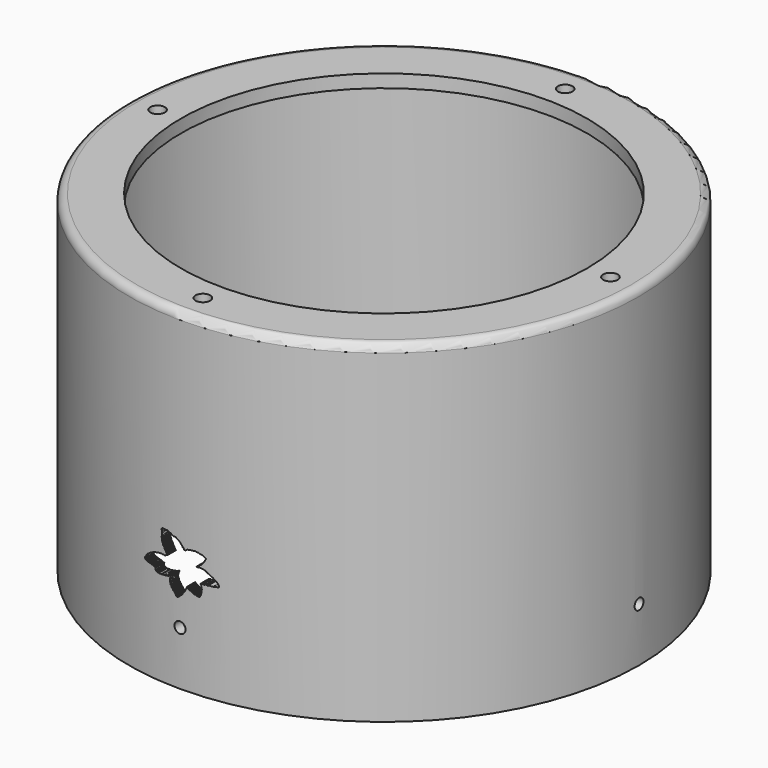
from build123d import *

# Parameters (mm, degrees)
EXTRUDE037_DEPTH  = 10
SKETCH049_R       = 2.8
EXTRUDE031_DEPTH  = 20
CYLINDER151_R     = 2.13
CYLINDER151_DEPTH = 300
CYLINDER152_R     = 2.13
CYLINDER152_DEPTH = 300
TUBE006_R         = 98
TUBE006_R_2       = 94
TUBE006_DEPTH     = 65
SKETCH048_R       = 98
SKETCH048_R_2     = 76
EXTRUDE030_DEPTH  = 5
FILLET003_R       = 3
TUBE005_R         = 98
TUBE005_R_2       = 95
TUBE005_DEPTH     = 3
SKETCH046_R       = 2.8
EXTRUDE028_DEPTH  = 20
CYLINDER137_R     = 2.13
CYLINDER137_DEPTH = 300
CYLINDER138_R     = 2.13
CYLINDER138_DEPTH = 300
TUBE003_R         = 98
TUBE003_R_2       = 94
TUBE003_DEPTH     = 125
SKETCH040_R       = 98
SKETCH040_R_2     = 78
EXTRUDE022_DEPTH  = 5
FILLET004_R       = 3


with BuildPart() as logocut:
    # Sketch055 → Extrude037 (new body)
    with BuildSketch(Plane.XZ):
        Polygon((35.718899, 14.46768), (35.541523, 14.282366), (35.541523, 14.207885), (35.453289, 14.134218), (35.458279, 14.061839), (35.319538, 13.921635), (35.319538, 13.852995), (35.247978, 13.797498), (35.247978, 13.657295), (35.182514, 13.591213), (35.182514, 13.264672), (35.09935, 13.159025), (35.09935, 13.045871), (35.033642, 12.956543), (35.033642, 12.34891), (35.100822, 12.34891), (35.100822, 12.210164), (35.170921, 12.207246), (35.170921, 11.994762), (35.235928, 11.994762), (35.235928, 11.918059), (35.300144, 11.918059), (35.300144, 11.840232), (35.367466, 11.840232), (35.367466, 11.243261), (35.435009, 11.243261), (35.435009, 11.172728), (35.509796, 11.172728), (35.509796, 11.102627), (35.655842, 11.102627), (35.655842, 11.025223), (35.712799, 11.025223), (35.712799, 10.768185), (35.775574, 10.768063), (35.775574, 10.564438), (35.845959, 10.564438), (35.845959, 10.476691), (35.987968, 10.476691), (35.987968, 10.422847), (36.120129, 10.422847), (36.120129, 10.290686), (36.19257, 10.290686), (36.19257, 10.158525), (36.253265, 10.158525), (36.253265, 10.089742), (36.31789, 10.089742), (36.31789, 9.887097), (36.38879, 9.887097), (36.38879, 9.735032), (36.451588, 9.735032), (36.451588, 9.656166), (36.670654, 9.656166), (36.670654, 9.588986), (36.733456, 9.588986), (36.733456, 9.511584), (36.794792, 9.511584), (36.794792, 9.403511), (36.866356, 9.403511), (36.866356, 9.248704), (36.929153, 9.248704), (36.929153, 9.182982), (37.003635, 9.182982), (37.003635, 9.121215), (37.06601, 9.121215), (37.06601, 8.981222), (37.136494, 8.981222), (37.136494, 8.856171), (37.211735, 8.856171), (37.211735, 8.77808), (37.275997, 8.777898), (37.275997, 8.708389), (37.347462, 8.708389), (37.347462, 8.586019), (37.411095, 8.586019), (37.411095, 8.502716), (37.477772, 8.502716), (37.477772, 8.378516), (37.549984, 8.378516), (37.549984, 8.295938), (37.62376, 8.295938), (37.62376, 8.208313), (37.695324, 8.211234), (37.695324, 8.14022), (37.753563, 8.144136), (37.757423, 8.06459), (37.818073, 8.06459), (37.82164, 7.989674), (38.102516, 7.989674), (38.191708, 8.080424), (38.241653, 8.085775), (38.455708, 8.323022), (38.523491, 8.323022), (38.588669, 8.403136), (38.677258, 8.403136), (39.064339, 8.80818), (39.151966, 8.80818), (39.535454, 9.198032), (39.631844, 9.198032), (39.79203, 9.38195), (39.788441, 9.456085), (39.977173, 9.634459), (39.977173, 9.725333), (40.169685, 9.919039), (40.174648, 9.995584), (40.238758, 10.060343), (40.242348, 10.126106), (40.594769, 10.479335), (40.594769, 10.549882), (40.670101, 10.618037), (40.658142, 10.652713), (40.698799, 10.652713), (40.93169, 10.887704), (40.93169, 10.959214), (41.013603, 11.040468), (41.006752, 11.164798), (41.07626, 11.227451), (41.072342, 11.297937), (41.149967, 11.382103), (41.149967, 11.57235), (41.231716, 11.635139), (41.215462, 11.771651), (41.283718, 11.843158), (41.27858, 11.869847), (41.31382, 11.869847), (41.545475, 12.104514), (41.561829, 12.430472), (41.62772, 12.504983), (41.62772, 12.610834), (41.691978, 12.539269), (41.767921, 12.539269), (41.767921, 12.451643), (41.833641, 12.454563), (41.833641, 12.390304), (41.89352, 12.390304), (41.89352, 12.317281), (41.95924, 12.321663), (41.965084, 12.2501), (42.023502, 12.255942), (42.026421, 12.18292), (42.106747, 12.188762), (42.106747, 12.114279), (42.242569, 12.12158), (42.242569, 12.041256), (42.44265, 12.041256), (42.449951, 11.95655), (42.522976, 11.963852), (42.527355, 11.89521), (42.593075, 11.901052), (42.593075, 11.847015), (42.645653, 11.849936), (42.645653, 11.788598), (42.784397, 11.788598), (42.784397, 11.713079), (43.064156, 11.713079), (43.064156, 11.635675), (43.198517, 11.635675), (43.198517, 11.571416), (43.261314, 11.571416), (43.261314, 11.508616), (43.328495, 11.508616), (43.328495, 11.432673), (43.391296, 11.437055), (43.3932, 11.371733), (43.743572, 11.371733), (43.743572, 11.302058), (43.809788, 11.302058), (43.813377, 11.228464), (44.023823, 11.228464), (44.023823, 11.160309), (44.154156, 11.160309), (44.15057, 11.092153), (44.284489, 11.100523), (44.284489, 11.027584), (44.35384, 11.031171), (44.35384, 10.953449), (44.492542, 10.953449), (44.492542, 10.906579), (44.840462, 10.906579), (44.840462, 10.822741), (44.96711, 10.824525), (44.96711, 10.749605), (45.238247, 10.749605), (45.238247, 10.678252), (45.438034, 10.678252), (45.438034, 10.617603), (45.857227, 10.617603), (45.857227, 10.548035), (46.271069, 10.548035), (46.571186, 10.875965), (46.567978, 10.953712), (46.651337, 11.038672), (46.651337, 11.216198), (46.753532, 11.316969), (46.746231, 11.435266), (46.817791, 11.514131), (46.808098, 11.635964), (46.891933, 11.728722), (46.891933, 11.914238), (46.970421, 12.010563), (46.970421, 13.014699), (47.143505, 13.195651), (47.143505, 13.581231), (47.023247, 13.581231), (47.023247, 13.968016), (46.938736, 13.981017), (46.938736, 14.192286), (46.860729, 14.189036), (46.860729, 14.276794), (46.974491, 14.400306), (46.984241, 14.647329), (46.867229, 14.660331), (46.867229, 14.806594), (46.798973, 14.813095), (46.795723, 14.884602), (46.737217, 14.891102), (46.750221, 15.069869), (46.65921, 15.076369), (46.65921, 15.209634), (46.753471, 15.281138), (47.549793, 15.281138), (47.549793, 15.2015), (48.132637, 15.2015), (48.191463, 15.28865), (48.281113, 15.28865), (48.404625, 15.419374), (48.65118, 15.419374), (48.65118, 15.332224), (48.908421, 15.332224), (48.908421, 15.264683), (49.113075, 15.264683), (49.113075, 15.170997), (49.344021, 15.170997), (49.431721, 15.277888), (49.512978, 15.271388), (49.63649, 15.417651), (51.160881, 15.417651), (51.27129, 15.474693), (51.870747, 15.474693), (51.950146, 15.550121), (52.061306, 15.550121), (52.156582, 15.633491), (53.077606, 15.633491), (53.255665, 15.808167), (53.255665, 16.103029), (53.195786, 16.103029), (53.195786, 16.304571), (53.130066, 16.301651), (53.130066, 16.440393), (53.059383, 16.440393), (53.055817, 16.517097), (52.977329, 16.517097), (52.977329, 16.645531), (52.92189, 16.645212), (52.92189, 16.714565), (52.854931, 16.714565), (52.853485, 16.786308), (52.786774, 16.786308), (52.786774, 16.921133), (52.715031, 16.921133), (52.715031, 16.980015), (52.645679, 16.980015), (52.645679, 17.036612), (52.576344, 17.036612), (52.576344, 17.128033), (52.514656, 17.128033), (52.514656, 17.269503), (52.450245, 17.264694), (52.445438, 17.336029), (52.379711, 17.338432), (52.382919, 17.40576), (52.317997, 17.402554), (52.317997, 17.471485), (52.245056, 17.471485), (52.245056, 17.536407), (52.183342, 17.538813), (52.183342, 17.607742), (52.11441, 17.607742), (52.11441, 17.674112), (52.04953, 17.674112), (52.04953, 17.749495), (51.901703, 17.749495), (51.901703, 17.809212), (51.835133, 17.809212), (51.835133, 17.891068), (51.763939, 17.891068), (51.763939, 17.962631), (51.6325, 17.962631), (51.6325, 18.028351), (51.484993, 18.028351), (51.484993, 18.071099), (51.416344, 18.071099), (51.416344, 18.158726), (51.28783, 18.158726), (51.28783, 18.227497), (51.223164, 18.227497), (51.226749, 18.292067), (51.152615, 18.292067), (51.152615, 18.366201), (51.084457, 18.360224), (51.084457, 18.442408), (51.022175, 18.442408), (51.022175, 18.51376), (50.816917, 18.51376), (50.787827, 18.602642), (50.749416, 18.611338), (50.739666, 18.673094), (50.541397, 18.653591), (50.538147, 18.7381), (50.411385, 18.721848), (50.395134, 18.793356), (50.333378, 18.793356), (50.336628, 18.83886), (50.206615, 18.83886), (50.209866, 18.920118), (50.125355, 18.926619), (50.115604, 19.004627), (49.998592, 18.994875), (49.992092, 19.085884), (49.936836, 19.050131), (49.920586, 19.15089), (49.797073, 19.128138), (49.806824, 19.202896), (49.728817, 19.189894), (49.719067, 19.258152), (49.660561, 19.264652), (49.65406, 19.332909), (49.602055, 19.332909), (49.598804, 19.407665), (49.462292, 19.394665), (49.462292, 19.472673), (49.254269, 19.453171), (49.254269, 19.527927), (49.199017, 19.527927), (49.199017, 19.618937), (49.06575, 19.605936), (49.0495, 19.661192), (48.990993, 19.65469), (48.984493, 19.735949), (48.857731, 19.726198), (48.857731, 19.814875), (48.774307, 19.806892), (48.774307, 19.889387), (48.585365, 19.889387), (48.585365, 19.953255), (48.441666, 19.953255), (48.441666, 20.011799), (48.375137, 20.011799), (48.375137, 20.088972), (48.303288, 20.088972), (48.303288, 20.152439), (48.091629, 20.152439), (48.091629, 20.233053), (47.891182, 20.233053), (47.891182, 20.296238), (47.686378, 20.296238), (47.686378, 20.368135), (47.289845, 20.368135), (47.289845, 20.43132), (47.009361, 20.43132), (47.009361, 20.503252), (46.726452, 20.503252), (46.726452, 20.562277), (46.319454, 20.562277), (46.230366, 20.478048), (45.840324, 20.478048), (45.758091, 20.39875), (45.684677, 20.39875), (45.684677, 20.475716), (45.235325, 20.475716), (45.151131, 20.396421), (45.039009, 20.39053), (45.127117, 20.498037), (45.167179, 20.498037), (45.258625, 20.560472), (45.324154, 20.560472), (45.40086, 20.646095), (45.522079, 20.646095), (45.614918, 20.704962), (45.804161, 20.704962), (45.991524, 20.88978), (45.991524, 20.958969), (46.058052, 21.020176), (46.052731, 21.089365), (46.212399, 21.246374), (46.276268, 21.227745), (46.505127, 21.448622), (46.584961, 21.453943), (46.69939, 21.602968), (46.824467, 21.584341), (46.901638, 21.685465), (46.965508, 21.656191), (47.205029, 21.875372), (47.205029, 22.071066), (47.263447, 22.071066), (47.620766, 22.445816), (47.620766, 22.517715), (47.821213, 22.718163), (47.834286, 22.79442), (48.047806, 22.997047), (48.047806, 23.136488), (48.099777, 23.217297), (48.099777, 23.280226), (48.302563, 23.487822), (48.302563, 23.552746), (48.36348, 23.623281), (48.36348, 23.687403), (48.433277, 23.751019), (48.442898, 23.812735), (48.515835, 23.896896), (48.515835, 23.966629), (48.570408, 24.037157), (48.570408, 24.298864), (48.516617, 24.298864), (48.516617, 24.388639), (48.434689, 24.388639), (48.434689, 24.454361), (48.316391, 24.454361), (48.316391, 24.525925), (48.230221, 24.525925), (48.230221, 24.593107), (48.027225, 24.593107), (48.027225, 24.657965), (47.882542, 24.657965), (47.882542, 24.729708), (47.81797, 24.729708), (47.81797, 24.787104), (47.68539, 24.787104), (47.68539, 24.86857), (47.557655, 24.86857), (47.557655, 24.935099), (47.475163, 24.935099), (47.475163, 25.014933), (47.361641, 25.009611), (47.361641, 25.07608), (46.949162, 25.07608), (46.949162, 25.150652), (46.591202, 25.150652), (46.591202, 25.220518), (46.389084, 25.220518), (46.389084, 25.276093), (46.207756, 25.276093), (46.207756, 25.358332), (46.124542, 25.358332), (46.122585, 25.418051), (45.988461, 25.418051), (45.979652, 25.497349), (45.785812, 25.497349), (45.685574, 25.395668), (45.594063, 25.395668), (45.583168, 25.476282), (44.974319, 25.476282), (44.968967, 25.566429), (44.902966, 25.566429), (44.904747, 25.643135), (44.82626, 25.643135), (44.819126, 25.705568), (44.615768, 25.705568), (44.523087, 25.619965), (44.444221, 25.619965), (44.370571, 25.546461), (44.204983, 25.546461), (44.12701, 25.493286), (44.013416, 25.493286), (43.990696, 25.591335), (43.674233, 25.591335), (43.586246, 25.508556), (43.391811, 25.508556), (43.300835, 25.416777), (43.130672, 25.416777), (43.130672, 25.490137), (42.781864, 25.490137), (42.61866, 25.342373), (42.543289, 25.342373), (42.506077, 25.28755), (42.426197, 25.28755), (42.378296, 25.260221), (42.303783, 25.260221), (42.226608, 25.185709), (42.161431, 25.185709), (42.161431, 25.233937), (42.098145, 25.233937), (42.098145, 25.274895), (41.828949, 25.274895), (41.602402, 25.080458), (41.49918, 25.094694), (41.361584, 24.946669), (41.281311, 24.925262), (41.203789, 24.852528), (41.110649, 24.847206), (41.062748, 24.791321), (40.990898, 24.783337), (40.940334, 24.740759), (40.940334, 24.804626), (40.897755, 24.80995), (40.897755, 24.895105), (40.701466, 24.895105), (40.599705, 24.801966), (40.599705, 24.87343), (40.53611, 24.87343), (40.53611, 24.944593), (40.458942, 24.944593), (40.458942, 25.177189), (40.384151, 25.177189), (40.384151, 25.344843), (40.320286, 25.344843), (40.320286, 25.412889), (40.258034, 25.412889), (40.258034, 25.482862), (40.070133, 25.482862), (40.070133, 25.642193), (39.956711, 25.642193), (39.956711, 25.77249), (39.909332, 25.77249), (39.909332, 25.873173), (39.844181, 25.873173), (39.844181, 25.938322), (39.784958, 25.950167), (39.784958, 26.068619), (39.7435, 26.068619), (39.7435, 26.181149), (39.675972, 26.181149), (39.675972, 26.221079), (39.488827, 26.221079), (39.491928, 26.297434), (39.446896, 26.297434), (39.446896, 26.432724), (39.383801, 26.432724), (39.383801, 26.575779), (39.312271, 26.575779), (39.312271, 26.630981), (39.232861, 26.630981), (39.232861, 26.707506), (39.171879, 26.707506), (39.171879, 26.781641), (39.023434, 26.781641), (39.023434, 26.867794), (38.956253, 26.867794), (38.956253, 26.93351), (38.896378, 26.93351), (38.896378, 26.994316), (38.843925, 26.994316), (38.843925, 27.052738), (38.775284, 27.052738), (38.775284, 27.119919), (38.702263, 27.119919), (38.702263, 27.193909), (38.649689, 27.193909), (38.649689, 27.274725), (38.523449, 27.274725), (38.523449, 27.318283), (38.440533, 27.318283), (38.440533, 27.398621), (38.367786, 27.398621), (38.367786, 27.469103), (38.294361, 27.469103), (38.294361, 27.531633), (38.223049, 27.531633), (38.223049, 27.595026), (38.001038, 27.595026), (38.001038, 27.671776), (37.874355, 27.671776), (37.874355, 27.748657), (37.822536, 27.748657), (37.822536, 27.798656), (37.684376, 27.798656), (37.684376, 27.885788), (37.556133, 27.885788), (37.556133, 27.943548), (37.416142, 27.943548), (37.416142, 28.040842), (37.072414, 28.040842), (37.078339, 28.117832), (36.817745, 28.117832), (36.699291, 28.023069), (36.563072, 28.023069), (36.563072, 28.088219), (36.480156, 28.088219), (36.480156, 28.152889), (36.321247, 28.152889), (36.321247, 28.215317), (36.053677, 28.215317), (36.053677, 28.272696), (35.983429, 28.272696), (35.983429, 28.351612), (35.921249, 28.351612), (35.921249, 28.439869), (35.843311, 28.439869), (35.843311, 28.501267), (35.706356, 28.501267), (35.706356, 28.515002), (35.638981, 28.515002), (35.638981, 28.577382), (35.565907, 28.577382), (35.565907, 28.73378), (35.36079, 28.73378), (35.290936, 28.637341), (35.220833, 28.637341), (35.220833, 28.756992), (35.093052, 28.756992), (35.093052, 28.832311), (34.887554, 28.832311), (34.887554, 28.892927), (34.716961, 28.892927), (34.716961, 28.980556), (34.559227, 28.980556), (34.559227, 29.037516), (34.427784, 29.037516), (34.427784, 29.125145), (34.210171, 29.125145), (34.218933, 29.176262), (34.078728, 29.176262), (34.078728, 29.265045), (33.944576, 29.2544), (33.944576, 29.343014), (33.711773, 29.343014), (33.61459, 29.256821), (33.141857, 29.256821), (33.141857, 29.315647), (32.076454, 29.315647), (31.765314, 28.982376), (31.765314, 28.628082), (31.839945, 28.628082), (31.839945, 27.865322), (31.891548, 27.865322), (31.891548, 27.677475), (31.827494, 27.592972), (31.827494, 26.647865), (31.895439, 26.647865), (31.895439, 26.565863), (31.772501, 26.44436), (31.772501, 26.089201), (31.83824, 26.089201), (31.83824, 26.028713), (31.901457, 26.028713), (31.901457, 25.739143), (31.96446, 25.739143), (31.96446, 25.478312), (31.895693, 25.37155), (31.895693, 25.018585), (31.982845, 25.005512), (31.971951, 24.807241), (32.056923, 24.802883), (32.061237, 24.709053), (32.108227, 24.71199), (32.108227, 24.573952), (32.177738, 24.578846), (32.177738, 24.375216), (32.262909, 24.383047), (32.262909, 24.228365), (32.348083, 24.241091), (32.348083, 24.181396), (32.384247, 24.181396), (32.226311, 24.034906), (32.226311, 23.846039), (32.327164, 23.846039), (32.327164, 23.745155), (32.393482, 23.745155), (32.393482, 23.608639), (32.455242, 23.608639), (32.455242, 23.54038), (32.523499, 23.54038), (32.523499, 23.46562), (32.595009, 23.46562), (32.595009, 23.394112), (32.653515, 23.394112), (32.653515, 23.319353), (32.705521, 23.319353), (32.705521, 23.247845), (32.803032, 23.247845), (32.803032, 23.146286), (32.859138, 23.146286), (32.859138, 23.011921), (32.928429, 23.011921), (32.928429, 22.729242), (32.997173, 22.729242), (32.997173, 22.593899), (33.055977, 22.593899), (33.055977, 22.443735), (33.128941, 22.443735), (33.128941, 22.379166), (33.197094, 22.379166), (33.197094, 22.319378), (33.267643, 22.319378), (33.267643, 22.261986), (33.331017, 22.261986), (33.331017, 22.122084), (33.396149, 22.122084), (33.396149, 22.061398), (33.451099, 22.061398), (33.451099, 21.931948), (33.530018, 21.931948), (33.530018, 21.709543), (33.604153, 21.709543), (33.604153, 21.638189), (33.674129, 21.638189), (33.674129, 21.559788), (33.742256, 21.559788), (33.742256, 21.518885), (33.812492, 21.518885), (33.812492, 21.36344), (33.880646, 21.36344), (33.880646, 21.20443), (33.943626, 21.20443), (33.943626, 21.133358), (33.996929, 21.133358), (33.996929, 21.056364), (34.056156, 21.056364), (34.056156, 20.991217), (34.168686, 20.991217), (34.168686, 20.943834), (34.12933, 20.885019), (34.04998, 20.885019), (33.991467, 20.804066), (33.920933, 20.804066), (33.853607, 20.729525), (33.748608, 20.729525), (33.701317, 20.65819), (33.550632, 20.65819), (33.508953, 20.626902), (33.432919, 20.626902), (33.389874, 20.533438), (33.315815, 20.533438), (33.164173, 20.397778), (32.884007, 20.397778), (32.884007, 20.464243), (32.644164, 20.464243), (32.644164, 20.548196), (32.501358, 20.548196), (32.408383, 20.477768), (32.192522, 20.477768), (32.192522, 20.542854), (30.940947, 20.542854), (30.863501, 20.479611), (30.789047, 20.479611), (30.71211, 20.420425), (30.123795, 20.420425), (29.896198, 20.203272), (29.374741, 20.203272), (29.286091, 20.132448), (29.038095, 20.132448), (28.963665, 20.071949), (28.888712, 20.071949), (28.799313, 19.963795), (28.663095, 19.963795), (28.603872, 19.886803), (28.420275, 19.886803), (28.371716, 19.817968), (28.260368, 19.817968), (28.212685, 19.734266), (28.064926, 19.734266), (28.053082, 19.666412), (27.919445, 19.666412), (27.86064, 19.585363), (27.73827, 19.585363), (27.658723, 19.513296), (27.563962, 19.513296), (27.530447, 19.438295), (27.443068, 19.438295), (27.413456, 19.389317), (27.300928, 19.389317), (27.146944, 19.193874), (27.04034, 19.193874), (26.984272, 19.106859), (26.887625, 19.106859), (26.776731, 18.979958), (26.70945, 18.979958), (26.567394, 18.842121), (26.498148, 18.842121), (26.373112, 18.692242), (26.291771, 18.692242), (26.110294, 18.496042), (26.021675, 18.496042), (25.655807, 18.110409), (25.655807, 18.024601), (25.314939, 17.715427), (25.314939, 17.617037), (25.145149, 17.452669), (25.145149, 17.387522), (25.039364, 17.275629), (25.039364, 17.215769), (24.902328, 17.091398), (24.902328, 17.009195), (24.822153, 16.940964), (24.822153, 16.883734), (24.764392, 16.846355), (24.764392, 16.406254), (24.843103, 16.406254), (24.843103, 16.327398), (24.908251, 16.327398), (24.908251, 16.238562), (25.037262, 16.238562), (25.037262, 16.173374), (25.233824, 16.173374), (25.233824, 16.100048), (25.423496, 16.100048), (25.423496, 16.045763), (25.497328, 16.045763), (25.497328, 15.993148), (25.688643, 15.993148), (25.688643, 15.918973), (25.777077, 15.918973), (25.777077, 15.84764), (25.844, 15.84764), (25.844, 15.779046), (25.979591, 15.779046), (25.979591, 15.711283), (26.516104, 15.711283), (26.516104, 15.635341), (27.035931, 15.635341), (27.035931, 15.563913), (27.110533, 15.563913), (27.110533, 15.488981), (27.586786, 15.488981), (27.586786, 15.425115), (28.049467, 15.425115), (28.049467, 15.351018), (28.486454, 15.351018), (28.486454, 15.286686), (28.736416, 15.286686), (28.736416, 15.142755), (28.816248, 15.142755), (28.816248, 15.071685), (28.966093, 15.071685), (28.966093, 15.020256), (29.387646, 15.020256), (29.387646, 14.913298), (29.322334, 14.854303), (29.322334, 14.616716), (29.240091, 14.53278), (29.240091, 14.183903), (29.313587, 14.183903), (29.313587, 14.05249), (29.377653, 14.05249), (29.377653, 13.994695), (29.454252, 13.994695), (29.454252, 13.925272), (29.597086, 13.925272), (29.597086, 13.83451), (29.713264, 13.83451), (29.713264, 13.769302), (29.857407, 13.769302), (29.857407, 13.697382), (30.132249, 13.697382), (30.132249, 13.645007), (30.333673, 13.645007), (30.333673, 13.593915), (30.437935, 13.593915), (30.437935, 13.517086), (30.819857, 13.517086), (30.897429, 13.583426), (31.454142, 13.583426), (31.535494, 13.651449), (31.731357, 13.651449), (31.731357, 13.564854), (32.29063, 13.564854), (32.363811, 13.628468), (32.445625, 13.628468), (32.473126, 13.715159), (32.866402, 13.715159), (32.956059, 13.750973), (33.003437, 13.750973), (33.019058, 13.705232), (33.372482, 13.705232), (33.430191, 13.800612), (33.49752, 13.800612), (33.556831, 13.863129), (33.70229, 13.863129), (33.777252, 13.928054), (33.915497, 13.928054), (33.986568, 13.970104), (34.134628, 13.970104), (34.163822, 13.892329), (34.454445, 13.892329), (34.519592, 13.964182), (34.620274, 13.964182), (34.834045, 14.161496), (34.934726, 14.161496), (35.03423, 14.274076), (35.111222, 14.274076), (35.206596, 14.335441), (35.275475, 14.335441), (35.329395, 14.40677), (35.396576, 14.403849), (35.465218, 14.46768), align=None)
    extrude(amount=-EXTRUDE037_DEPTH)


with BuildPart() as logocut_1:
    # Extrude037 placement: moved
    add(logocut.part.moved(Location((-39, -248, -165))))


with BuildPart() as m4heatsetvercuts004:
    # Sketch049 → Extrude031 (new body)
    with BuildSketch(Plane.XY):
        with Locations((0, -68)):
            Circle(SKETCH049_R)
        with Locations((82, -150)):
            Circle(SKETCH049_R)
        with Locations((0, -232)):
            Circle(SKETCH049_R)
        with Locations((-82, -150)):
            Circle(SKETCH049_R)
    extrude(amount=EXTRUDE031_DEPTH)


with BuildPart() as m4heatsetvercuts004_1:
    # Extrude031 placement: moved
    add(m4heatsetvercuts004.part.moved(Location((0, 0, -193))))


with BuildPart() as cylinder151:
    # Cylinder151 → Cylinder151 (new body)
    with BuildSketch(Plane(origin=(0, 0, 90), x_dir=(1, 0, 0), z_dir=(0, -1, 0))):
        Circle(CYLINDER151_R)
    extrude(amount=CYLINDER151_DEPTH)


with BuildPart() as m4cuts015:
    # Cylinder152 → Cylinder152 (new body)
    with BuildSketch(Plane(origin=(-150, -150, 90), x_dir=(0, 1, 0), z_dir=(1, 0, 0))):
        Circle(CYLINDER152_R)
    extrude(amount=CYLINDER152_DEPTH)

    # Fusion096: union Cylinder151
    add(cylinder151.part)


with BuildPart() as m4cuts015_1:
    # Fusion096 placement: moved
    add(m4cuts015.part.moved(Location((0, 0, -321))))


with BuildPart() as tube006:
    # Tube006 → Tube006 (new body)
    with BuildSketch(Plane(origin=(0, -150, -125), x_dir=(1, 0, 0), z_dir=(0, 0, 1))):
        Circle(TUBE006_R)
        Circle(TUBE006_R_2, mode=Mode.SUBTRACT)
    extrude(amount=TUBE006_DEPTH)


with BuildPart() as level5s002:
    # Sketch048 → Extrude030 (new body)
    with BuildSketch(Plane.XY):
        with Locations((0, -150)):
            Circle(SKETCH048_R)
        with Locations((0, -150)):
            Circle(SKETCH048_R_2, mode=Mode.SUBTRACT)
    extrude(amount=EXTRUDE030_DEPTH)


with BuildPart() as level5s002_1:
    # Extrude030 placement: moved
    add(level5s002.part.moved(Location((0, 0, -65))))

    # Fusion095: union Tube006
    add(tube006.part)


with BuildPart() as level5s002_2:
    # Fusion095 placement: moved
    add(level5s002_1.part.moved(Location((0, 0, -125))))

    # Cut047: cut m4Cuts015
    add(m4cuts015_1.part, mode=Mode.SUBTRACT)

    # Cut048: cut m4HeatSetVerCuts004
    add(m4heatsetvercuts004_1.part, mode=Mode.SUBTRACT)

    # Fillet003
    fillet003_edges = [level5s002_2.edges().sort_by_distance(p)[0] for p in [
        (-98, -150, -185),
        (-98, -150, -250),
        (-94, -150, -190),
    ]]
    fillet(fillet003_edges, radius=FILLET003_R)


with BuildPart() as obj1:
    # Tube005 → Tube005 (new body)
    with BuildSketch(Plane(origin=(0, -150, -188), x_dir=(1, 0, 0), z_dir=(0, 0, 1))):
        Circle(TUBE005_R)
        Circle(TUBE005_R_2, mode=Mode.SUBTRACT)
    extrude(amount=TUBE005_DEPTH)

    # Cut049: cut level5s002
    add(level5s002_2.part, mode=Mode.SUBTRACT)


with BuildPart() as obj1_1:
    # Cut049 placement: moved
    add(obj1.part.moved(Location((0, 0, 0.25))))


with BuildPart() as m4heatsetvercuts003:
    # Sketch046 → Extrude028 (new body)
    with BuildSketch(Plane.XY):
        with Locations((0, -63)):
            Circle(SKETCH046_R)
        with Locations((87, -150)):
            Circle(SKETCH046_R)
        with Locations((0, -237)):
            Circle(SKETCH046_R)
        with Locations((-87, -150)):
            Circle(SKETCH046_R)
    extrude(amount=EXTRUDE028_DEPTH)


with BuildPart() as m4heatsetvercuts003_1:
    # Extrude028 placement: moved
    add(m4heatsetvercuts003.part.moved(Location((0, 0, -69.5))))


with BuildPart() as cylinder137:
    # Cylinder137 → Cylinder137 (new body)
    with BuildSketch(Plane(origin=(0, 0, 90), x_dir=(1, 0, 0), z_dir=(0, -1, 0))):
        Circle(CYLINDER137_R)
    extrude(amount=CYLINDER137_DEPTH)


with BuildPart() as m4cuts010:
    # Cylinder138 → Cylinder138 (new body)
    with BuildSketch(Plane(origin=(-150, -150, 90), x_dir=(0, 1, 0), z_dir=(1, 0, 0))):
        Circle(CYLINDER138_R)
    extrude(amount=CYLINDER138_DEPTH)

    # Fusion087: union Cylinder137
    add(cylinder137.part)


with BuildPart() as m4cuts010_1:
    # Fusion087 placement: moved
    add(m4cuts010.part.moved(Location((0, 0, -257))))


with BuildPart() as tube003:
    # Tube003 → Tube003 (new body)
    with BuildSketch(Plane(origin=(0, -150, -185), x_dir=(1, 0, 0), z_dir=(0, 0, 1))):
        Circle(TUBE003_R)
        Circle(TUBE003_R_2, mode=Mode.SUBTRACT)
    extrude(amount=TUBE003_DEPTH)


with BuildPart() as level4to5:
    # Sketch040 → Extrude022 (new body)
    with BuildSketch(Plane.XY):
        with Locations((0, -150)):
            Circle(SKETCH040_R)
        with Locations((0, -150)):
            Circle(SKETCH040_R_2, mode=Mode.SUBTRACT)
    extrude(amount=EXTRUDE022_DEPTH)


with BuildPart() as level4to5_1:
    # Extrude022 placement: moved
    add(level4to5.part.moved(Location((0, 0, -65))))

    # Fusion080: union Tube003
    add(tube003.part)

    # Cut040: cut m4Cuts010
    add(m4cuts010_1.part, mode=Mode.SUBTRACT)

    # Cut042: cut m4HeatSetVerCuts003
    add(m4heatsetvercuts003_1.part, mode=Mode.SUBTRACT)

    # Fusion097: union obj1
    add(obj1_1.part)

    # Fillet004
    fillet004_edges = [level4to5_1.edges().sort_by_distance(p)[0] for p in [
        (-98, -150, -60),
    ]]
    fillet(fillet004_edges, radius=FILLET004_R)

    # Cut056: cut logoCut
    add(logocut_1.part, mode=Mode.SUBTRACT)


solid = level4to5_1.part
